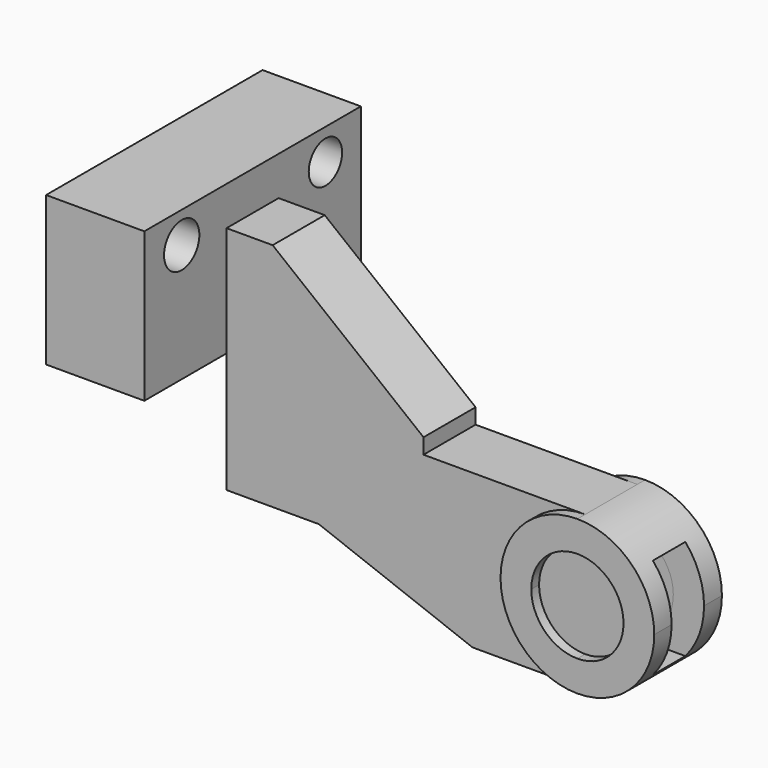
from build123d import *

# Parameters (mm, degrees)
F0_W     = 18
F0_H     = 90
F1_DEPTH = 12.7
F2_DEPTH = 16.51
F3_R     = 8.14073
F3_R_2   = 8.620427
F4_DEPTH = 38.354
F5_W     = 15.829529
F5_H     = 39.240476
F6_DEPTH = 56.896


with BuildPart() as f1:
    # F0 (on Front) → F1 (new body, symmetric)
    with BuildSketch(Plane.XZ):
        with Locations((-131, 37.849821)):
            Rectangle(F0_W, F0_H)
        Polygon((-104, -7.150179), (-44, -30), (-44, 0), (-44, 18), (-104, 18), align=None)
        with BuildLine():
            Line((0, 0), (0, 18))
            ThreePointArc((0, 18), (-12.727922, 12.727922), (-18, 0))
            Line((-18, 0), (0, 0))
        make_face()
        with BuildLine():
            Line((0, 0), (18, 0))
            ThreePointArc((18, 0), (12.727922, 12.727922), (0, 18))
            Line((0, 18), (0, 0))
        make_face()
        with BuildLine():
            ThreePointArc((0, -18), (12.727922, -12.727922), (18, 0))
            Line((18, 0), (0, 0))
            Line((0, 0), (0, -18))
        make_face()
        with BuildLine():
            ThreePointArc((-18, 0), (-12.727922, -12.727922), (0, -18))
            Line((0, -18), (0, 0))
            Line((0, 0), (-18, 0))
        make_face()
        with BuildLine():
            Line((-44, -30), (0, -30))
            ThreePointArc((0, -30), (-21.213203, -21.213203), (-30, 0))
            Line((-30, 0), (-44, 0))
            Line((-44, 0), (-44, -30))
        make_face()
        with BuildLine():
            ThreePointArc((-30, 0), (-21.213203, 21.213203), (0, 30))
            Line((0, 30), (-63.111477, 30))
            Line((-63.111477, 30), (-63.111477, 36))
            Line((-63.111477, 36), (-122, 82.849821))
            Line((-122, 82.849821), (-122, -7.150179))
            Line((-122, -7.150179), (-104, -7.150179))
            Line((-104, -7.150179), (-104, 18))
            Line((-104, 18), (-44, 18))
            Line((-44, 18), (-44, 0))
            Line((-44, 0), (-30, 0))
        make_face()
    extrude(amount=F1_DEPTH, both=True)


with BuildPart() as f2:
    # F0 (on Front) → F2 (new body, symmetric)
    with BuildSketch(Plane.XZ):
        with BuildLine():
            Line((18, 0), (30, 0))
            ThreePointArc((30, 0), (21.213203, 21.213203), (0, 30))
            Line((0, 30), (0, 18))
            ThreePointArc((0, 18), (12.727922, 12.727922), (18, 0))
        make_face()
        with BuildLine():
            Line((0, 18), (0, 30))
            ThreePointArc((0, 30), (-21.213203, 21.213203), (-30, 0))
            Line((-30, 0), (-18, 0))
            ThreePointArc((-18, 0), (-12.727922, 12.727922), (0, 18))
        make_face()
        with BuildLine():
            ThreePointArc((-30, 0), (-21.213203, -21.213203), (0, -30))
            Line((0, -30), (0, -18))
            ThreePointArc((0, -18), (-12.727922, -12.727922), (-18, 0))
            Line((-18, 0), (-30, 0))
        make_face()
        with BuildLine():
            ThreePointArc((0, -30), (21.213203, -21.213203), (30, 0))
            Line((30, 0), (18, 0))
            ThreePointArc((18, 0), (12.727922, -12.727922), (0, -18))
            Line((0, -18), (0, -30))
        make_face()
    extrude(amount=F2_DEPTH, both=True)


with BuildPart() as f4:
    # F3 (on face) → F4 (new body)
    with BuildSketch(Plane(origin=(-140, 0, 0), x_dir=(0, -1, 0), z_dir=(-1, 0, 0))):
        Polygon((52.815661, 98.069571), (-52.815661, 98.069571), (-52.815661, 39.824255), (-12.7, 39.824255), (-12.7, 82.849821), (12.7, 82.849821), (12.7, 39.824255), (52.815661, 39.824255), align=None)
        with Locations((-35.539515, 85.93525)):
            Circle(F3_R, mode=Mode.SUBTRACT)
        with Locations((34.580109, 85.93525)):
            Circle(F3_R_2, mode=Mode.SUBTRACT)
    extrude(amount=F4_DEPTH)


with BuildPart() as f6_tool:
    # F5 (on Right) → F6 (new body)
    with BuildSketch(Plane.YZ):
        with Locations((-0.126766, 0)):
            Rectangle(F5_W, F5_H)
    extrude(amount=F6_DEPTH)


with BuildPart() as f1_1:
    add(f1.part)

    # F6: cut by f6_tool
    add(f6_tool.part, mode=Mode.SUBTRACT)


with BuildPart() as f2_1:
    add(f2.part)

    # F6: cut by f6_tool
    add(f6_tool.part, mode=Mode.SUBTRACT)


solid = Compound([f4.part, f1_1.part, f2_1.part])
